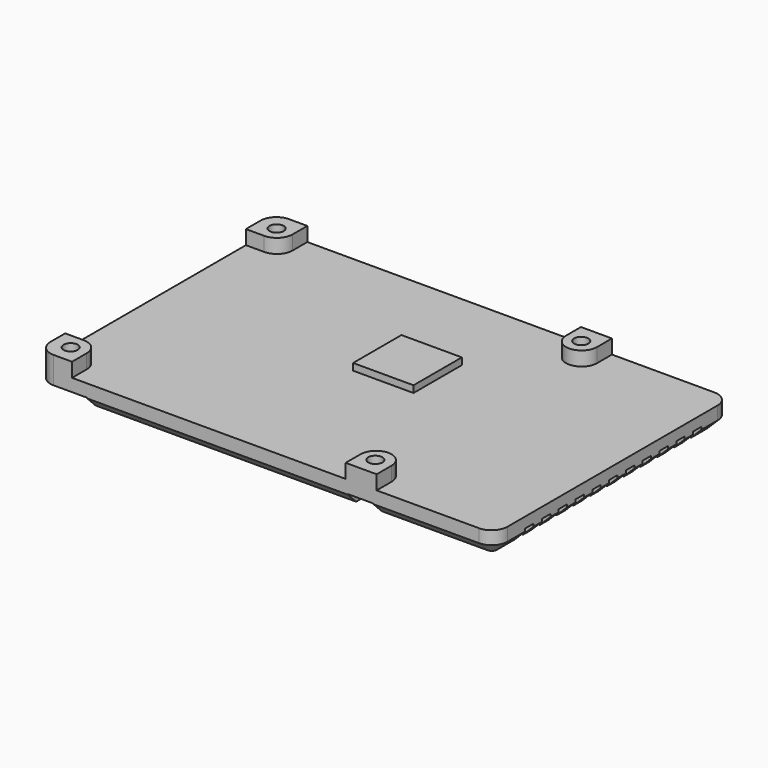
from build123d import *

# Parameters (mm, degrees)
PAD_DEPTH           = 4.5
SKETCH001_W         = 5.9
SKETCH001_H         = 6.5
PAD001_DEPTH        = 2.7
SKETCH002_W         = 87
SKETCH002_H         = 2
POCKET_DEPTH        = 2.5
LINEARPATTERN_COUNT = 11
LINEARPATTERN_PITCH = 4
SKETCH003_W         = 4.9
SKETCH003_H         = 7.2
POCKET001_DEPTH     = 2.1
SKETCH004_R         = 1.35
POCKET002_DEPTH     = 212.531374
CHAMFER_SIZE        = 1.99
POCKET003_DEPTH     = 2.7
SKETCH006_W         = 11.5
SKETCH006_H         = 11.5
PAD002_DEPTH        = 1.3


with BuildPart() as part:
    # Sketch → Pad (new body)
    with BuildSketch(Plane.XY):
        with BuildLine():
            Line((43.5, 25), (43.5, -25))
            ThreePointArc((40.5, -28), (42.62132, -27.12132), (43.5, -25))
            Line((-40.5, -28), (40.5, -28))
            ThreePointArc((-43.5, -25), (-42.62132, -27.12132), (-40.5, -28))
            Line((-43.5, -25), (-43.5, 25))
            ThreePointArc((-40.5, 28), (-42.62132, 27.12132), (-43.5, 25))
            Line((-40.5, 28), (40.5, 28))
            ThreePointArc((43.5, 25), (42.62132, 27.12132), (40.5, 28))
        make_face()
    extrude(amount=PAD_DEPTH)

    # Sketch001 (on Face10 of Pad) → Pad001 (join)
    with BuildSketch(Plane.XY.offset(4.5)):
        with BuildLine():
            Line((-43.5, 21.5), (-37, 21.5))
            Line((-37, 21.5), (-37, 28))
            Line((-37, 28), (-40.5, 28))
            ThreePointArc((-40.5, 28), (-42.62132, 27.12132), (-43.5, 25))
            Line((-43.5, 21.5), (-43.5, 25))
        make_face()
        with Locations((18.05, 24.75)):
            Rectangle(SKETCH001_W, SKETCH001_H)
        with BuildLine():
            Line((-43.5, -21.5), (-43.5, -25))
            ThreePointArc((-43.5, -25), (-42.62132, -27.12132), (-40.5, -28))
            Line((-40.5, -28), (-37, -28))
            Line((-37, -21.5), (-37, -28))
            Line((-43.5, -21.5), (-37, -21.5))
        make_face()
        with Locations((18.05, -24.75)):
            Rectangle(SKETCH001_W, SKETCH001_H)
    extrude(amount=PAD001_DEPTH)

    # Sketch002 (on Face4 of Pad001) → Pocket (cut)
    with BuildSketch(Plane(origin=(0, 0, 0), x_dir=(1, 0, 0), z_dir=(0, 0, -1))):
        with Locations((0, 19.8)):
            Rectangle(SKETCH002_W, SKETCH002_H)
    pocket = extrude(amount=-POCKET_DEPTH, mode=Mode.SUBTRACT)

    # LinearPattern: Pocket ×11
    with Locations(*[(0, i * LINEARPATTERN_PITCH, 0) for i in range(1, LINEARPATTERN_COUNT)]):
        add(pocket, mode=Mode.SUBTRACT)

    # Sketch003 (on Face26 of LinearPattern) → Pocket001 (cut)
    with BuildSketch(Plane(origin=(0, 0, 0), x_dir=(1, 0, 0), z_dir=(0, 0, -1))):
        with BuildLine():
            Line((-43.5, 25), (-43.5, 20.8))
            Line((-43.5, 20.8), (-34.1, 20.8))
            Line((-34.1, 20.8), (-34.1, 28))
            Line((-40.5, 28), (-34.1, 28))
            ThreePointArc((-40.5, 28), (-42.62132, 27.12132), (-43.5, 25))
        make_face()
        with Locations((17.95, 24.4)):
            Rectangle(SKETCH003_W, SKETCH003_H)
    pocket001 = extrude(amount=-POCKET001_DEPTH, mode=Mode.SUBTRACT)

    # Mirrored: Pocket001 across Sketch003 H_Axis
    add(pocket001.mirror(Plane(origin=(0, 0, 0), x_dir=(0, 0, -1), z_dir=(0, -1, 0))), mode=Mode.SUBTRACT)

    # Sketch004 (on Face33 of Mirrored) → Pocket002 (cut, through all)
    with BuildSketch(Plane(origin=(0, 0, 2.1), x_dir=(1, 0, 0), z_dir=(0, 0, -1))):
        with Locations((-40.05, 24.5)):
            Circle(SKETCH004_R)
        with Locations((17.95, 24.5)):
            Circle(SKETCH004_R)
    pocket002 = extrude(amount=-POCKET002_DEPTH, mode=Mode.SUBTRACT)

    # Mirrored001: Pocket002 across Sketch004 H_Axis
    add(pocket002.mirror(Plane(origin=(0, 0, 2.1), x_dir=(0, 0, -1), z_dir=(0, -1, 0))), mode=Mode.SUBTRACT)

    # Chamfer
    chamfer_edges = [part.edges().sort_by_distance(p)[0] for p in [
        (-9.3, 28, 0),
        (-43.5, 18.2, 0),
        (-43.5, 14.2, 0),
        (-43.5, 10.2, 0),
        (-43.5, 6.2, 0),
        (-43.5, 2.2, 0),
        (-43.5, -1.8, 0),
        (-43.5, -5.8, 0),
        (-43.5, -9.8, 0),
        (-43.5, -13.8, 0),
        (-43.5, -17.8, 0),
        (-9.3, -28, 0),
        (30.45, -28, 0),
        (42.62132, -27.12132, 0),
        (43.5, -22.9, 0),
        (43.5, -17.8, 0),
        (43.5, -13.8, 0),
        (43.5, -9.8, 0),
        (43.5, -5.8, 0),
        (43.5, -1.8, 0),
        (43.5, 2.2, 0),
        (43.5, 6.2, 0),
        (43.5, 10.2, 0),
        (43.5, 14.2, 0),
        (43.5, 18.2, 0),
        (43.5, 23.1, 0),
        (42.62132, 27.12132, 0),
        (30.45, 28, 0),
    ]]
    chamfer(chamfer_edges, length=CHAMFER_SIZE)

    # Sketch005 (on Face21 of Chamfer) → Pocket003 (cut)
    with BuildSketch(Plane.XY.offset(7.2)):
        with BuildLine():
            Line((-40, 21.5), (-37, 21.5))
            Line((-37, 24.5), (-37, 21.5))
            ThreePointArc((-40, 21.5), (-37.87868, 22.37868), (-37, 24.5))
        make_face()
        with BuildLine():
            Line((15.1, 21.5), (21, 21.5))
            Line((21, 24.458305), (21, 21.5))
            ThreePointArc((15.1, 24.458305), (18.05, 21.508305), (21, 24.458305))
            Line((15.1, 21.5), (15.1, 24.458305))
        make_face()
    pocket003 = extrude(amount=-POCKET003_DEPTH, mode=Mode.SUBTRACT)

    # Mirrored002: Pocket003 across Sketch005 H_Axis
    add(pocket003.mirror(Plane(origin=(0, 0, 7.2), x_dir=(0, 0, 1), z_dir=(0, 1, 0))), mode=Mode.SUBTRACT)

    # Sketch006 (on Face110 of Mirrored002) → Pad002 (join)
    with BuildSketch(Plane.XY.offset(4.5)):
        with Locations((-0.05, 5.65)):
            Rectangle(SKETCH006_W, SKETCH006_H)
    extrude(amount=PAD002_DEPTH)


solid = part.part
